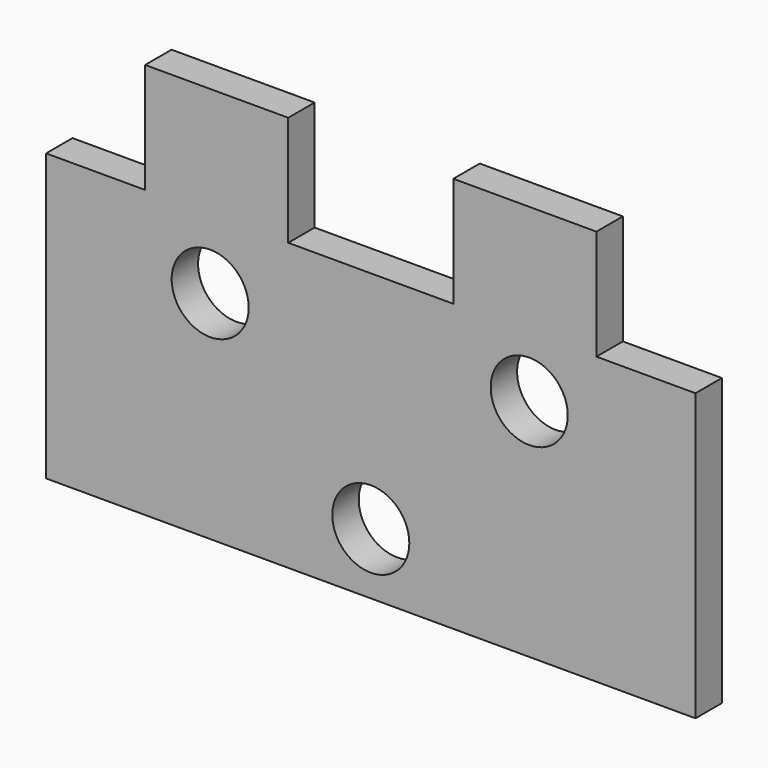
from build123d import *

# Parameters (mm, degrees)
F0_R     = 3.5
F0_W     = 13
F0_H     = 10
F1_DEPTH = 1.5


with BuildPart() as f1:
    # F0 (on Front) → F1 (new body, symmetric)
    with BuildSketch(Plane.XZ):
        Polygon((-29.5, -13), (29.5, -13), (29.5, 13), (20.5, 13), (7.5, 13), (-7.5, 13), (-20.5, 13), (-29.5, 13), align=None)
        with Locations((0, -7.445684)):
            Circle(F0_R, mode=Mode.SUBTRACT)
        with Locations((-14.590251, 6.649186)):
            Circle(F0_R, mode=Mode.SUBTRACT)
        with Locations((14.393566, 7.443263)):
            Circle(F0_R, mode=Mode.SUBTRACT)
        with Locations((14, 18)):
            Rectangle(F0_W, F0_H)
        with Locations((-14, 18)):
            Rectangle(F0_W, F0_H)
    extrude(amount=F1_DEPTH, both=True)


solid = f1.part
